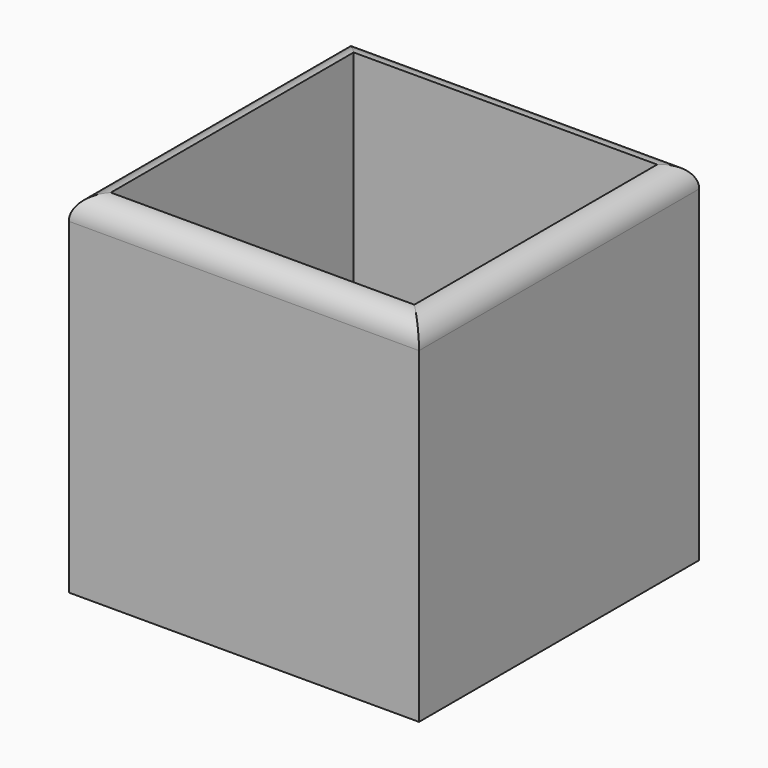
from build123d import *

# Parameters (mm, degrees)
F2_W     = 1500
F2_H     = 1500
F0_DEPTH = 1500
F1_R     = 100
F3_W     = 1300
F3_H     = 1300
F3_W_2   = 284
F3_H_2   = 284
F4_DEPTH = 1500


with BuildPart() as f0:
    # F2 (on Top) → F0 (new body)
    with BuildSketch(Plane.XY):
        Rectangle(F2_W, F2_H)
    extrude(amount=F0_DEPTH)

    # F1
    f1_edges = [f0.edges().sort_by_distance(p)[0] for p in [
        (0, -750, 1500),
        (750, 0, 1500),
        (0, 750, 1500),
        (-750, 0, 1500),
    ]]
    fillet(f1_edges, radius=F1_R)

    # F3 (on face) → F4 (cut)
    with BuildSketch(Plane.XY.offset(1500)):
        Rectangle(F3_W, F3_H)
        Rectangle(F3_W_2, F3_H_2, mode=Mode.SUBTRACT)
        Rectangle(F3_W_2, F3_H_2)
    extrude(amount=-F4_DEPTH, mode=Mode.SUBTRACT)


solid = f0.part
